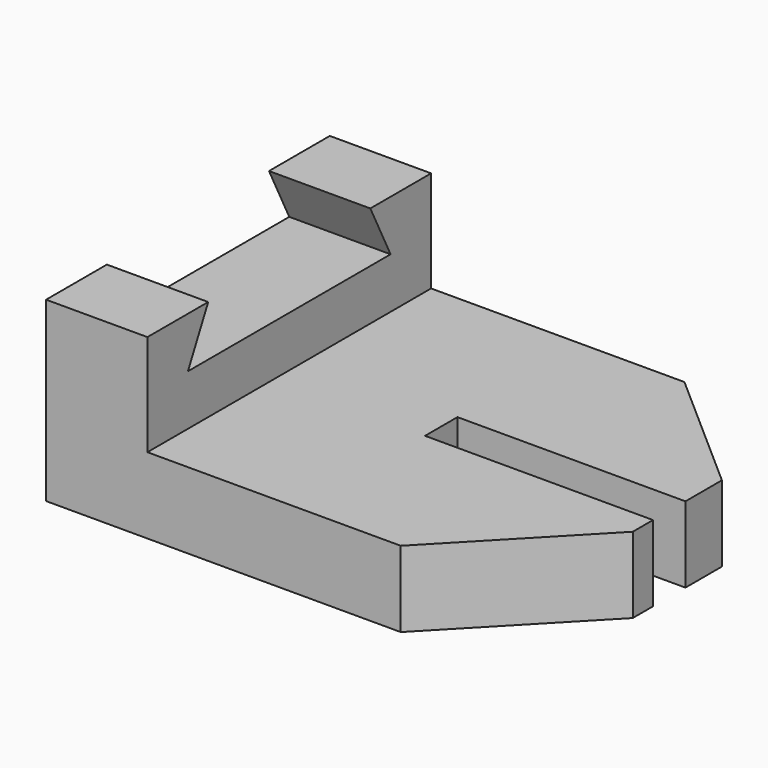
from build123d import *

# Parameters (mm, degrees)
F0_W      = 47.5
F0_H      = 35
F1_DEPTH  = 7.5
F2_W      = 10
F2_H      = 35
F3_DEPTH  = 10
F5_DEPTH  = 10.001
F7_DEPTH  = 7.501
F9_DEPTH  = 7.501
F10_W     = 22.5
F10_H     = 4
F11_DEPTH = 7.501


with BuildPart() as f1:
    # F0 (on Top) → F1 (new body)
    with BuildSketch(Plane.XY):
        with Locations((8.500643, -14.324561)):
            Rectangle(F0_W, F0_H)
    extrude(amount=F1_DEPTH)

    # F2 (on face) → F3 (join)
    with BuildSketch(Plane.XY.offset(7.5)):
        with Locations((-10.249357, -14.324561)):
            Rectangle(F2_W, F2_H)
    extrude(amount=F3_DEPTH)

    # F4 (on face) → F5 (cut, through all)
    with BuildSketch(Plane.YZ.offset(-5.249357)):
        Polygon((-1.824561, 12.5), (-4.324561, 17.5), (-24.324561, 17.5), (-26.824561, 12.5), align=None)
    extrude(amount=-F5_DEPTH, mode=Mode.SUBTRACT)

    # F6 (on face) → F7 (cut, through all)
    with BuildSketch(Plane.XY.offset(7.5)):
        Polygon((19.750643, -31.824561), (32.250643, -31.824561), (32.250643, -18.824561), align=None)
    extrude(amount=-F7_DEPTH, mode=Mode.SUBTRACT)

    # F8 (on face) → F9 (cut, through all)
    with BuildSketch(Plane.XY.offset(7.5)):
        Polygon((19.750643, 3.175439), (32.250643, -7.824561), (32.250643, 3.175439), align=None)
    extrude(amount=-F9_DEPTH, mode=Mode.SUBTRACT)

    # F10 (on face) → F11 (cut, through all)
    with BuildSketch(Plane.XY.offset(7.5)):
        with Locations((21.000643, -14.324561)):
            Rectangle(F10_W, F10_H)
    extrude(amount=-F11_DEPTH, mode=Mode.SUBTRACT)


solid = f1.part
